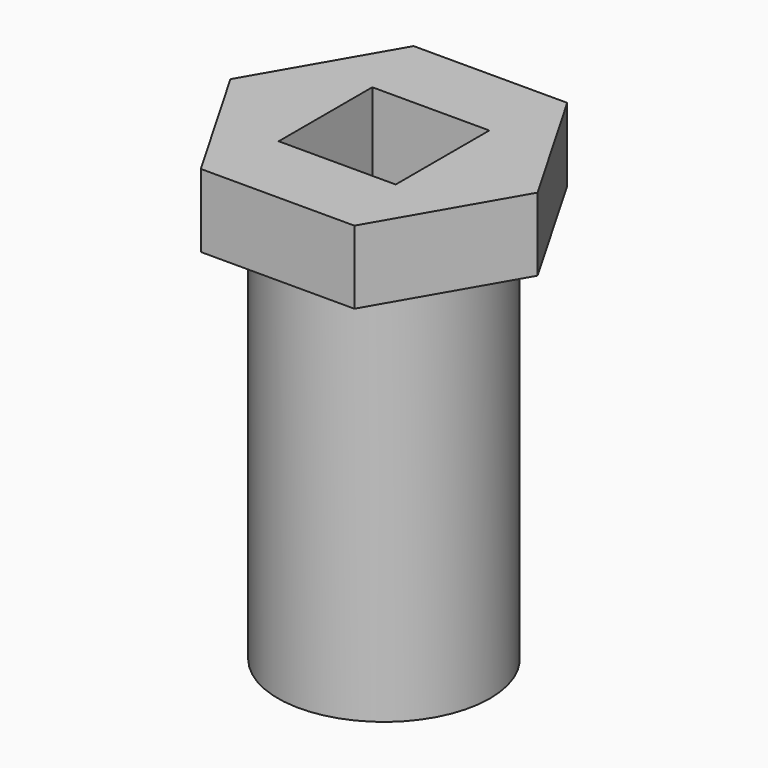
from build123d import *

# Parameters (mm, degrees)
SKETCH_R     = 14.5
PAD_DEPTH    = 53
PAD001_DEPTH = 10
SKETCH001_W  = 16
SKETCH001_H  = 16
POCKET_DEPTH = 70


with BuildPart() as part:
    # Sketch → Pad (new body)
    with BuildSketch(Plane.XY):
        Circle(SKETCH_R)
    extrude(amount=PAD_DEPTH)

    # Sketch002 → Pad001 (join)
    with BuildSketch(Plane.XY.offset(53)):
        Polygon((21, 0), (10.5, 18.186533), (-10.5, 18.186533), (-21, 0), (-10.5, -18.186533), (10.5, -18.186533), align=None)
    extrude(amount=PAD001_DEPTH)

    # Sketch001 → Pocket (cut)
    with BuildSketch(Plane.XY):
        Rectangle(SKETCH001_W, SKETCH001_H)
    extrude(amount=POCKET_DEPTH, mode=Mode.SUBTRACT)


with BuildPart() as part_1:
    # Body placement: moved
    add(part.part.moved(Location((50, 50, -3))))


solid = part_1.part
